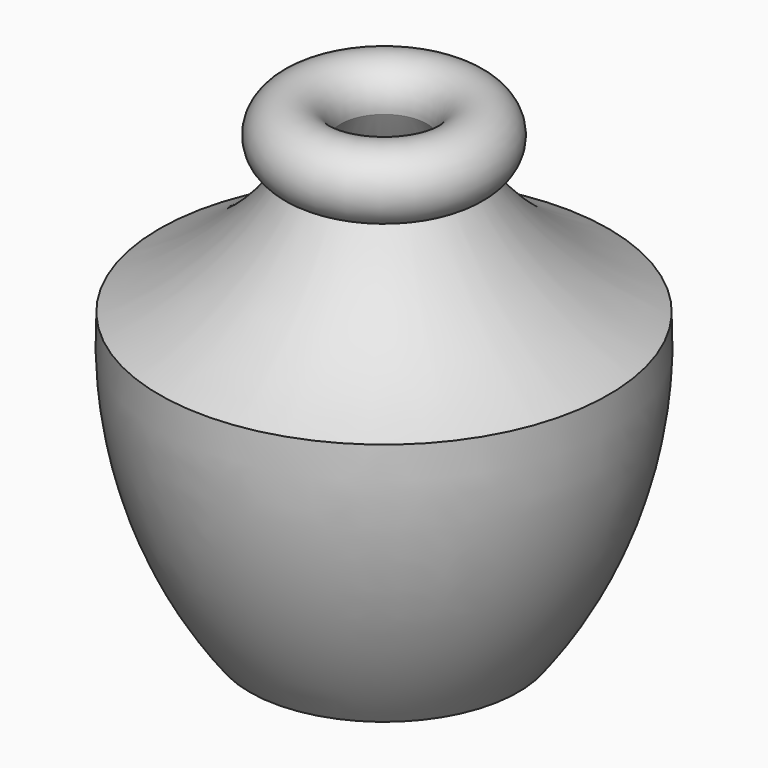
from build123d import *


with BuildPart() as f2:
    # F0 (on Front) → F2 (revolve)
    with BuildSketch(Plane.XZ):
        with BuildLine():
            Line((-7.069672, -65.724523), (-7.069672, -59.374523))
            Line((-7.069672, -59.374523), (-37.565424, -59.374523))
            ThreePointArc((-37.565424, -59.374523), (-56.206759, -22.527405), (-61.943306, 18.366377))
            ThreePointArc((-61.943306, 18.366377), (-33.022265, 39.005427), (-13.108262, 68.430409))
            ThreePointArc((-13.108262, 68.430409), (-29.47639, 77.9928), (-24.939795, 59.586979))
            ThreePointArc((-24.939795, 59.586979), (-43.664291, 37.721807), (-68.128894, 22.550265))
            ThreePointArc((-68.128894, 22.550265), (-62.382124, -24.054662), (-40.733403, -65.724523))
            Line((-40.733403, -65.724523), (-7.069672, -65.724523))
        make_face()
    revolve(axis=Axis((0, 0, 64.846978), (0, 0, 1)))


solid = f2.part
